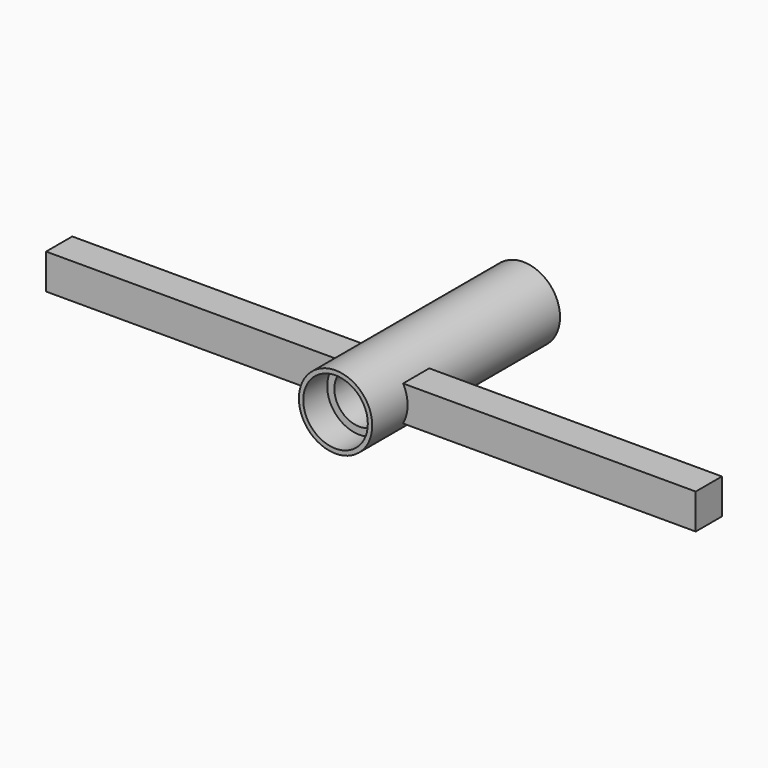
from build123d import *

# Parameters (mm, degrees)
F0_R     = 12.5
F0_R_2   = 11
F1_DEPTH = 40
F2_R     = 11
F2_R_2   = 8.574422
F3_DEPTH = 29.8
F4_W     = 100
F4_H     = 11.153503
F5_DEPTH = 6


with BuildPart() as f1:
    # F0 (on Front) → F1 (new body, symmetric)
    with BuildSketch(Plane.XZ):
        Circle(F0_R)
        Circle(F0_R_2, mode=Mode.SUBTRACT)
    extrude(amount=F1_DEPTH, both=True)

    # F2 (on Front) → F3 (join, symmetric)
    with BuildSketch(Plane.XZ):
        Circle(F2_R)
        Circle(F2_R_2, mode=Mode.SUBTRACT)
    extrude(amount=F3_DEPTH, both=True)

    # F4 (on Top) → F5 (join, symmetric)
    with BuildSketch(Plane.XY):
        with Locations((-60.685454, -19.360414)):
            Rectangle(F4_W, F4_H)
        with Locations((60.685454, -19.360414)):
            Rectangle(F4_W, F4_H)
    extrude(amount=F5_DEPTH, both=True)


solid = f1.part
